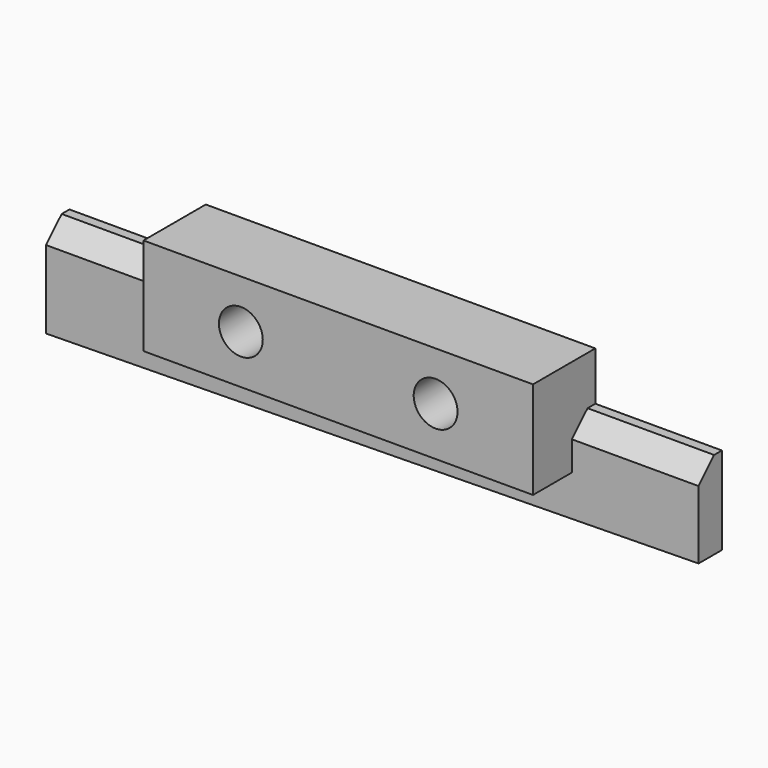
from build123d import *

# Parameters (mm, degrees)
F1_DEPTH = 3
F0_R     = 2.25
F2_DEPTH = 8
F3_SIZE  = 1.5
F4_SIZE  = 2


with BuildPart() as f1:
    # F0 (on Front) → F1 (new body)
    with BuildSketch(Plane.XZ):
        Polygon((-20, -5), (-20, 0), (-34, 0), (-34, -10), (33, -9), (33, 0), (20, 0), (20, -5), align=None)
    extrude(amount=F1_DEPTH)

    # F0 (on Front) → F2 (join)
    with BuildSketch(Plane.XZ):
        Polygon((20, 5), (-20, 5), (-20, 0), (-20, -5), (20, -5), (20, 0), align=None)
        with Locations((-10, 0)):
            Circle(F0_R, mode=Mode.SUBTRACT)
        with Locations((10, 0)):
            Circle(F0_R, mode=Mode.SUBTRACT)
    extrude(amount=F2_DEPTH)

    # F3
    f3_edges = [f1.edges().sort_by_distance(p)[0] for p in [
        (7.75, 0, 0),
        (-12.25, 0, 0),
    ]]
    chamfer(f3_edges, length=F3_SIZE)

    # F4
    f4_edges = [f1.edges().sort_by_distance(p)[0] for p in [
        (-27, -3, 0),
        (26.5, -3, 0),
    ]]
    chamfer(f4_edges, length=F4_SIZE)


solid = f1.part
